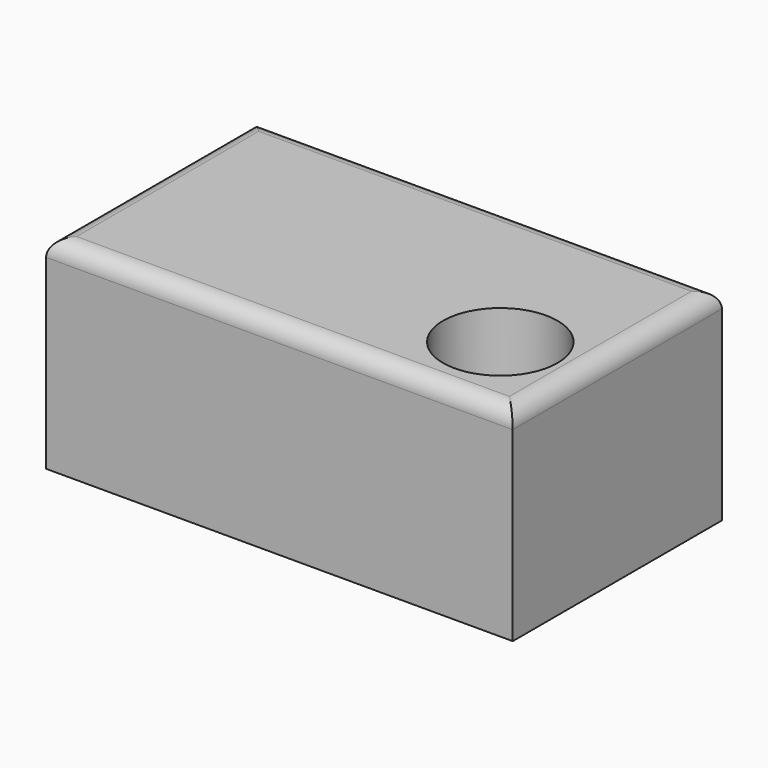
from build123d import *

# Parameters (mm, degrees)
F0_W     = 137.842797
F0_H     = 77.237847
F1_DEPTH = 60
F2_R     = 16.906171
F3_DEPTH = 25
F4_R     = 5


with BuildPart() as f1:
    # F0 (on Top) → F1 (new body)
    with BuildSketch(Plane.XY):
        with Locations((0.66914, 8.698817)):
            Rectangle(F0_W, F0_H)
    extrude(amount=F1_DEPTH)

    # F2 (on face) → F3 (cut)
    with BuildSketch(Plane.XY.offset(60)):
        with Locations((45.942705, -4.954772)):
            Circle(F2_R)
    extrude(amount=-F3_DEPTH, mode=Mode.SUBTRACT)

    # F4
    f4_edges = [f1.edges().sort_by_distance(p)[0] for p in [
        (0.66914, -29.920107, 60),
        (69.590539, 8.698816, 60),
        (0.66914, 47.31774, 60),
        (-68.252258, 8.698816, 60),
    ]]
    fillet(f4_edges, radius=F4_R)


solid = f1.part
